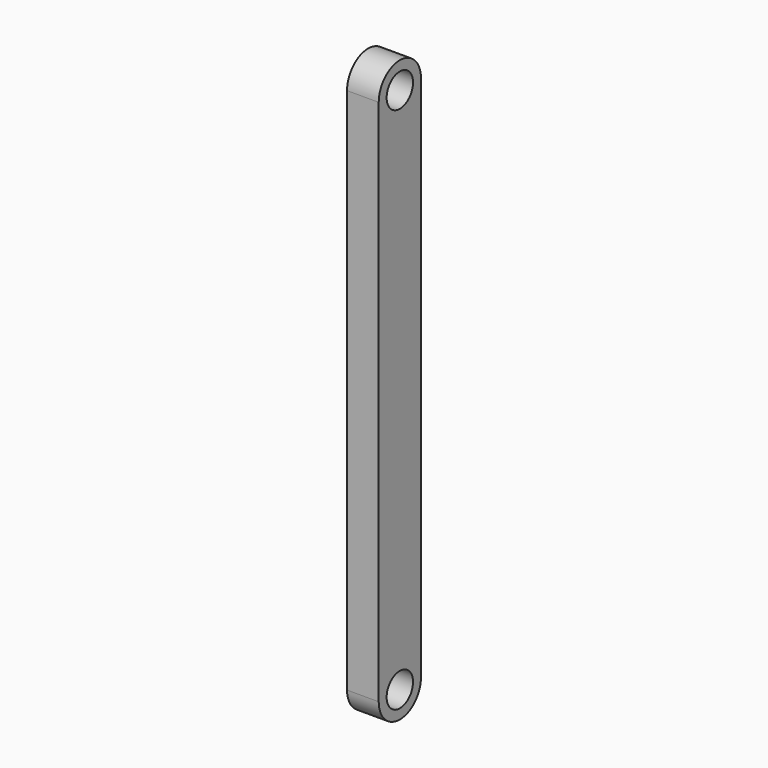
from build123d import *

# Parameters (mm, degrees)
F0_R     = 1.5625
F1_DEPTH = 3


with BuildPart() as f1:
    # F0 (on Right) → F1 (new body)
    with BuildSketch(Plane.YZ):
        with BuildLine():
            ThreePointArc((-5, 0), (-2.5, -2.5), (0, 0))
            Line((0, 0), (0, 50))
            ThreePointArc((0, 50), (-2.5, 52.5), (-5, 50))
            Line((-5, 50), (-5, 0))
        make_face()
        with Locations((-2.5, 0)):
            Circle(F0_R, mode=Mode.SUBTRACT)
        with Locations((-2.5, 50)):
            Circle(F0_R, mode=Mode.SUBTRACT)
    extrude(amount=F1_DEPTH)


solid = f1.part
